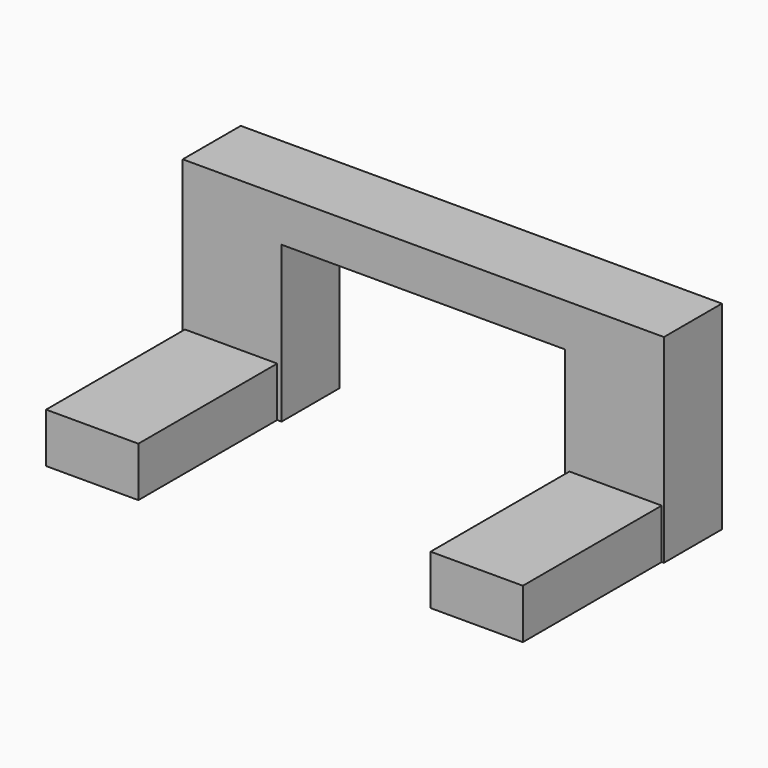
from build123d import *

# Parameters (mm, degrees)
F0_W     = 61.481372
F0_H     = 9.264317
F1_DEPTH = 25.4
F2_W     = 11.790948
F2_H     = 22.739682
F3_DEPTH = 6.35
F4_W     = 36.215054
F4_H     = 19.90229
F5_DEPTH = 38.602317


with BuildPart() as f1:
    # F0 (on Top) → F1 (new body)
    with BuildSketch(Plane.XY):
        with Locations((0, 33.969158)):
            Rectangle(F0_W, F0_H)
    extrude(amount=F1_DEPTH)

    # F2 (on Top) → F3 (join)
    with BuildSketch(Plane.XY):
        with Locations((-24.564476, 18.528631)):
            Rectangle(F2_W, F2_H)
        with Locations((24.564476, 18.528631)):
            Rectangle(F2_W, F2_H)
    extrude(amount=F3_DEPTH)

    # F4 (on Front) → F5 (cut, through all)
    with BuildSketch(Plane.XZ):
        with Locations((-1e-06, 9.951145)):
            Rectangle(F4_W, F4_H)
    extrude(amount=-F5_DEPTH, mode=Mode.SUBTRACT)


solid = f1.part
